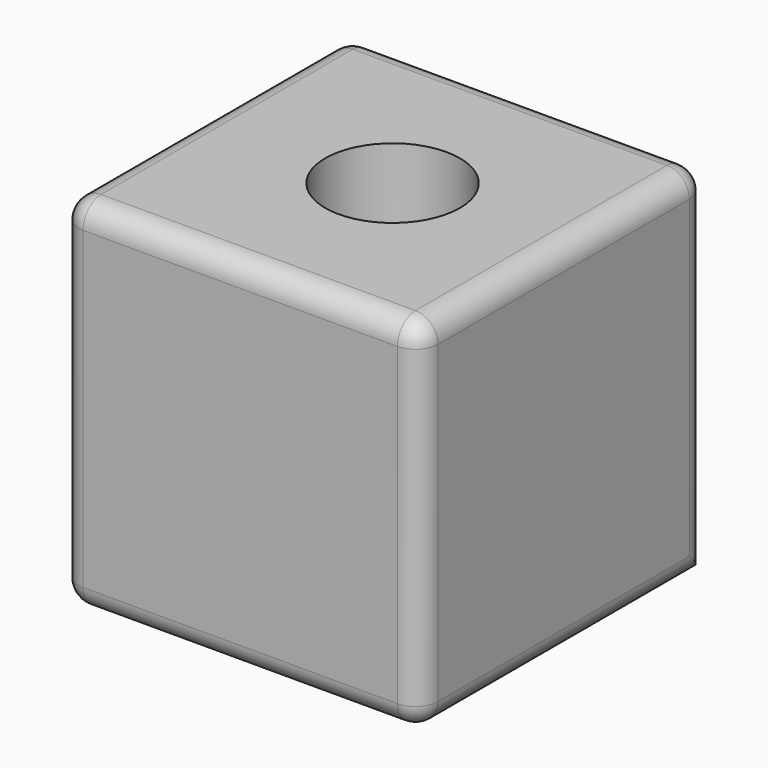
from build123d import *

# Parameters (mm, degrees)
F0_W     = 80
F0_H     = 80
F1_DEPTH = 40
F2_R     = 5
F3_R     = 15
F4_DEPTH = 80.001


with BuildPart() as f1:
    # F0 (on Top) → F1 (new body, symmetric)
    with BuildSketch(Plane.XY):
        Rectangle(F0_W, F0_H)
    extrude(amount=F1_DEPTH, both=True)

    # F2
    f2_edges = [f1.edges().sort_by_distance(p)[0] for p in [
        (-40, 0, 40),
        (-40, 0, -40),
        (0, 40, 40),
        (0, -40, 40),
        (-40, -40, 0),
        (-40, 40, 0),
        (40, 0, -40),
        (40, 40, 0),
        (40, -40, 0),
        (0, -40, -40),
        (40, 0, 40),
    ]]
    fillet(f2_edges, radius=F2_R)

    # F3 (on face) → F4 (cut, through all)
    with BuildSketch(Plane.XY.offset(40)):
        with Locations((1.912538, 0)):
            Circle(F3_R)
    extrude(amount=-F4_DEPTH, mode=Mode.SUBTRACT)


solid = f1.part
